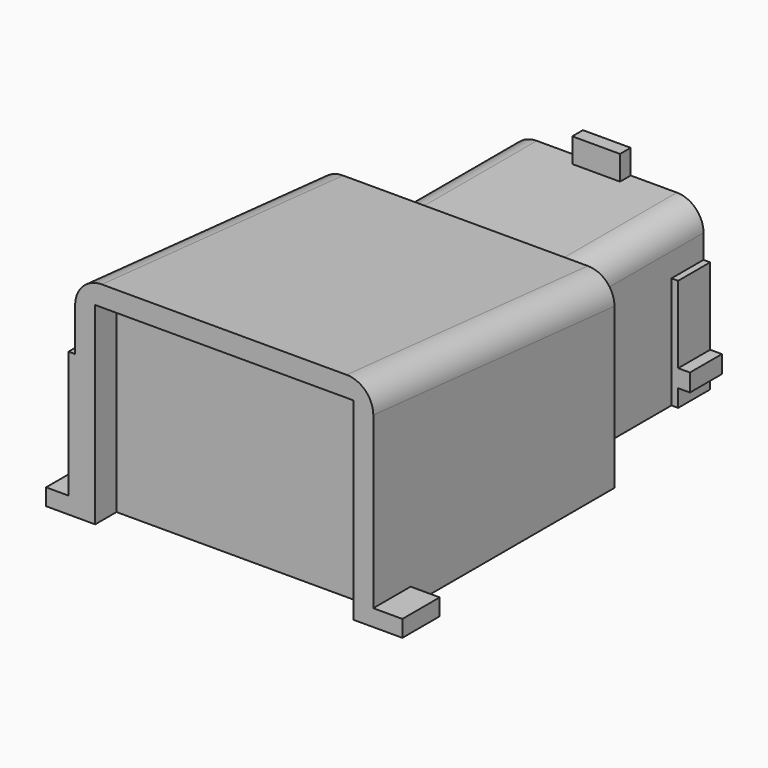
from build123d import *

# Parameters (mm, degrees)
F0_W      = 22.35
F0_H      = 16
F1_DEPTH  = 22.6
F2_W      = 19.35
F2_H      = 14.48
F3_DEPTH  = 2
F5_DEPTH  = 25
F6_W      = 3.5
F6_H      = 1.25
F7_DEPTH  = 2.18
F8_W      = 3.5
F8_H      = 1.25
F9_DEPTH  = 2.18
F10_W     = 3.5
F10_H     = 10.75
F11_DEPTH = 0.5
F12_W     = 14.5
F12_H     = 12.18
F13_DEPTH = 13.25
F14_W     = 11.5
F14_H     = 10.53
F15_DEPTH = 1.5
F16_W     = 3.58
F16_H     = 1
F17_DEPTH = 1.83
F18_W     = 3
F18_H     = 8.39
F19_DEPTH = 0.5
F20_W     = 3
F20_H     = 1.32
F21_DEPTH = 0.88
F22_W     = 3
F22_H     = 1.82
F23_DEPTH = 1.23
F24_R     = 2


with BuildPart() as f1:
    # F0 (on Front) → F1 (new body)
    with BuildSketch(Plane.XZ):
        with Locations((-2.416973, 8)):
            Rectangle(F0_W, F0_H)
    extrude(amount=F1_DEPTH)

    # F2 (on face) → F3 (cut)
    with BuildSketch(Plane.XZ.offset(22.6)):
        with Locations((-2.416973, 7.24)):
            Rectangle(F2_W, F2_H)
    extrude(amount=-F3_DEPTH, mode=Mode.SUBTRACT)

    # F4 (on face) → F5 (cut)
    with BuildSketch(Plane(origin=(-13.591973, 0, 0), x_dir=(0, -1, 0), z_dir=(-1, 0, 0))):
        Polygon((0, 16), (0, 14), (22.6, 16), align=None)
    extrude(amount=-F5_DEPTH, mode=Mode.SUBTRACT)

    # F6 (on face) → F7 (join)
    with BuildSketch(Plane(origin=(-13.591973, 0, 0), x_dir=(0, -1, 0), z_dir=(-1, 0, 0))):
        with Locations((20.85, 0.625)):
            Rectangle(F6_W, F6_H)
    extrude(amount=F7_DEPTH)

    # F8 (on face) → F9 (join)
    with BuildSketch(Plane.YZ.offset(8.758027)):
        with Locations((-20.85, 0.625)):
            Rectangle(F8_W, F8_H)
    extrude(amount=F9_DEPTH)

    # F10 (on face) → F11 (join)
    with BuildSketch(Plane(origin=(-13.591973, 0, 0), x_dir=(0, -1, 0), z_dir=(-1, 0, 0))):
        with Locations((20.85, 5.375)):
            Rectangle(F10_W, F10_H)
    extrude(amount=F11_DEPTH)

    # F12 (on face) → F13 (join)
    with BuildSketch(Plane(origin=(0, 0, 0), x_dir=(-1, 0, 0), z_dir=(0, 1, 0))):
        with Locations((2.416973, 6.09)):
            Rectangle(F12_W, F12_H)
    extrude(amount=F13_DEPTH)

    # F14 (on face) → F15 (cut)
    with BuildSketch(Plane(origin=(0, 13.25, 0), x_dir=(-1, 0, 0), z_dir=(0, 1, 0))):
        with Locations((2.416973, 5.265)):
            Rectangle(F14_W, F14_H)
    extrude(amount=-F15_DEPTH, mode=Mode.SUBTRACT)

    # F16 (on face) → F17 (join)
    with BuildSketch(Plane.XY.offset(12.18)):
        with Locations((-2.416973, 12.75)):
            Rectangle(F16_W, F16_H)
    extrude(amount=F17_DEPTH)

    # F18 (on face) → F19 (join)
    with BuildSketch(Plane.YZ.offset(4.833027)):
        with Locations((11.75, 4.195)):
            Rectangle(F18_W, F18_H)
    extrude(amount=F19_DEPTH)

    # F20 (on face) → F21 (join)
    with BuildSketch(Plane.YZ.offset(5.333027)):
        with Locations((11.75, 1.96)):
            Rectangle(F20_W, F20_H)
    extrude(amount=F21_DEPTH)

    # F22 (on face) → F23 (join)
    with BuildSketch(Plane(origin=(-9.666973, 0, 0), x_dir=(0, -1, 0), z_dir=(-1, 0, 0))):
        with Locations((-11.75, 2.21)):
            Rectangle(F22_W, F22_H)
    extrude(amount=F23_DEPTH)

    # F24
    f24_edges = [f1.edges().sort_by_distance(p)[0] for p in [
        (-13.591973, -11.3, 15),
        (8.758027, -11.3, 15),
        (4.833027, 6.625, 12.18),
        (-9.666973, 6.625, 12.18),
    ]]
    fillet(f24_edges, radius=F24_R)


solid = f1.part
